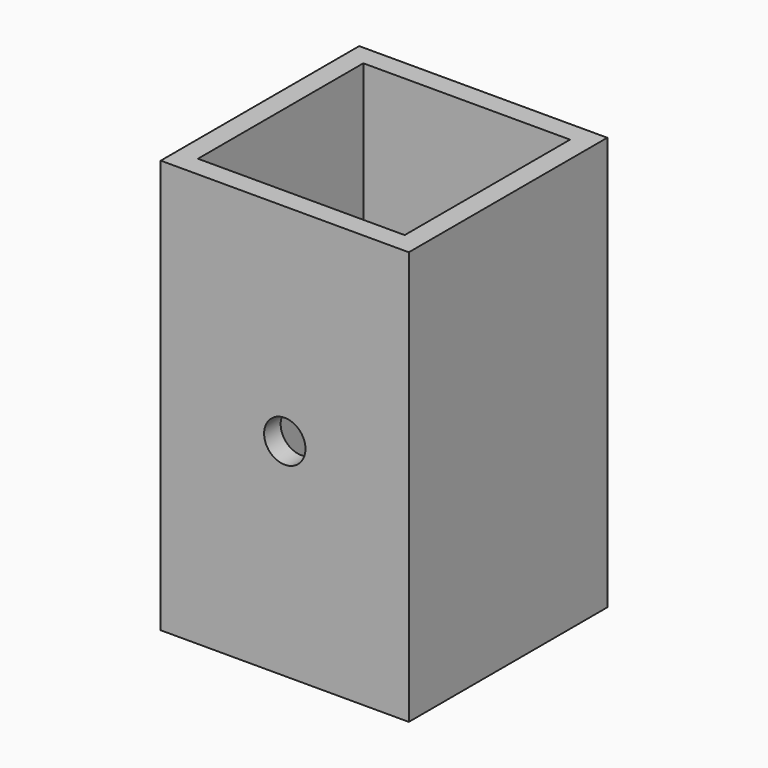
from build123d import *

# Parameters (mm, degrees)
F0_W     = 38.1
F0_H     = 38.1
F0_W_2   = 31.75
F0_H_2   = 31.75
F1_DEPTH = 63.5
F3_DEPTH = 38.101


with BuildPart() as f1:
    # F0 (on Top) → F1 (new body)
    with BuildSketch(Plane.XY):
        Rectangle(F0_W, F0_H)
        Rectangle(F0_W_2, F0_H_2, mode=Mode.SUBTRACT)
    extrude(amount=F1_DEPTH)

    # F2 (on face) → F3 (cut, through all)
    with BuildSketch(Plane.XZ.offset(19.05)):
        with BuildLine():
            ThreePointArc((3.175, 31.75), (1.564319, 34.512885), (-1.633524, 34.47254))
            Line((-1.633524, 34.47254), (1.633524, 29.02746))
            ThreePointArc((1.633524, 29.02746), (2.762885, 30.185681), (3.175, 31.75))
        make_face()
        with BuildLine():
            Line((1.633524, 29.02746), (-1.633524, 34.47254))
            ThreePointArc((-1.633524, 34.47254), (-2.72254, 30.116476), (1.633524, 29.02746))
        make_face()
    extrude(amount=-F3_DEPTH, mode=Mode.SUBTRACT)


solid = f1.part
